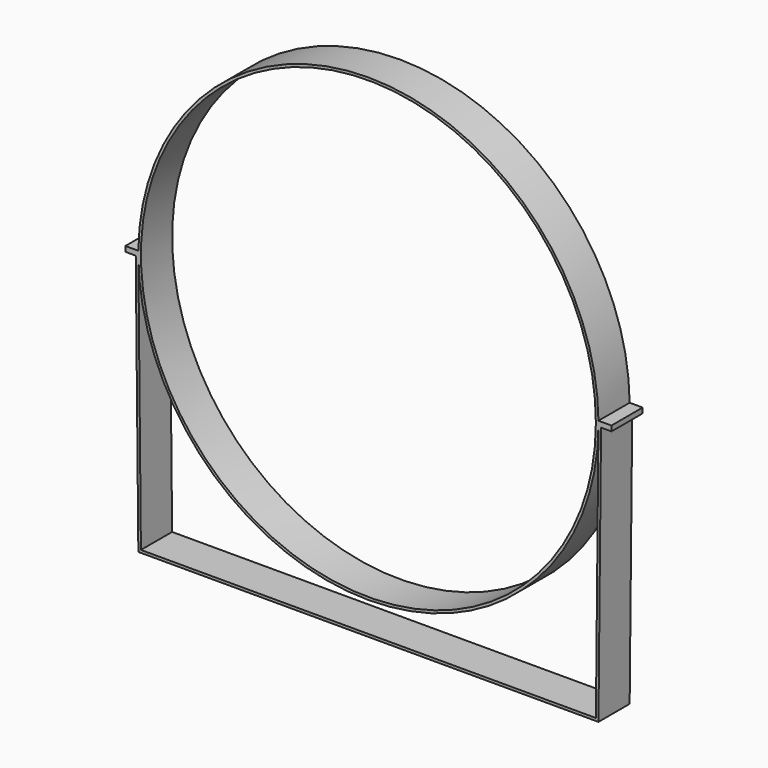
from build123d import *

# Parameters (mm, degrees)
F0_R     = 350
F1_DEPTH = 60


with BuildPart() as f1:
    # F0 (on Front) → F1 (new body)
    with BuildSketch(Plane.XZ):
        with BuildLine():
            ThreePointArc((353.9774, -4), (353.99435, -2.000032), (354, 0))
            ThreePointArc((354, 0), (353.99435, 2.000032), (353.9774, 4))
            ThreePointArc((353.9774, 4), (0, 354), (-353.9774, 4))
            ThreePointArc((-353.9774, 4), (-354, 0), (-353.9774, -4))
            ThreePointArc((-353.9774, -4), (0, -354), (353.9774, -4))
        make_face()
        Circle(F0_R, mode=Mode.SUBTRACT)
        with BuildLine():
            ThreePointArc((353.9774, 4), (353.99435, 2.000032), (354, 0))
            ThreePointArc((354, 0), (353.99435, -2.000032), (353.9774, -4))
            Line((353.9774, -4), (357.9776, -4))
            Line((357.9776, -4), (373.9774, -4))
            Line((373.9774, -4), (373.9774, 0))
            Line((373.9774, 0), (373.9774, 4))
            Line((373.9774, 4), (353.9774, 4))
        make_face()
        Polygon((357.9776, -4), (353.9774, -4), (350.017602, -399.940196), (-350.017602, -399.940196), (-353.9774, -4), (-357.9776, -4), (-353.9774, -403.979997), (353.9774, -403.979997), align=None)
        with BuildLine():
            ThreePointArc((-353.9774, -4), (-354, 0), (-353.9774, 4))
            Line((-353.9774, 4), (-373.9774, 4))
            Line((-373.9774, 4), (-373.9774, 0))
            Line((-373.9774, 0), (-373.9774, -4))
            Line((-373.9774, -4), (-357.9776, -4))
            Line((-357.9776, -4), (-353.9774, -4))
        make_face()
    extrude(amount=F1_DEPTH)


solid = f1.part
